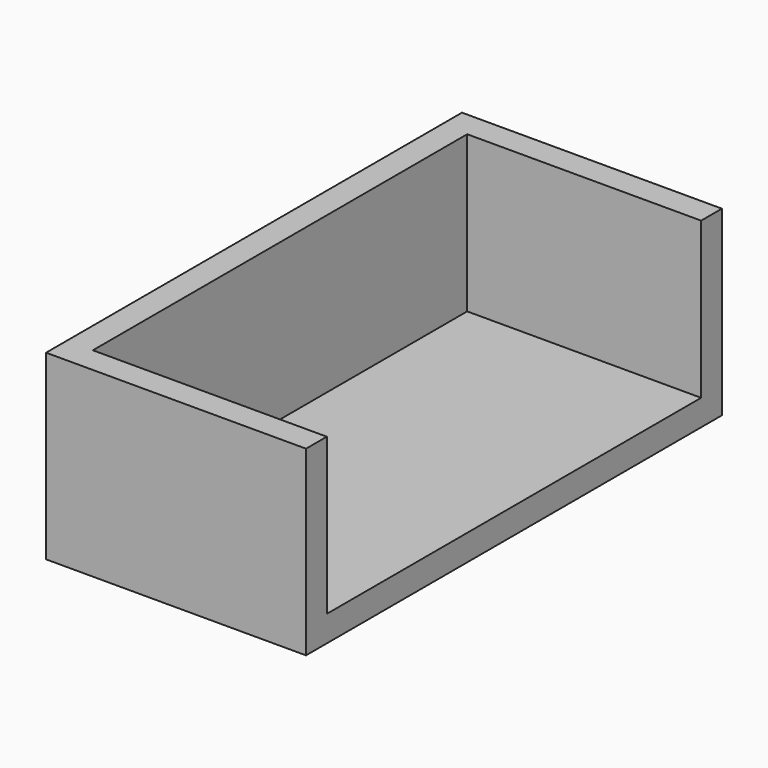
from build123d import *

# Parameters (mm, degrees)
F0_W     = 200
F0_H     = 70
F1_DEPTH = 100
F2_W     = 90
F2_H     = 180
F3_DEPTH = 60


with BuildPart() as f1:
    # F0 (on Right) → F1 (new body)
    with BuildSketch(Plane.YZ):
        Rectangle(F0_W, F0_H)
    extrude(amount=F1_DEPTH)

    # F2 (on face) → F3 (cut)
    with BuildSketch(Plane.XY.offset(35)):
        with Locations((55, 0)):
            Rectangle(F2_W, F2_H)
    extrude(amount=-F3_DEPTH, mode=Mode.SUBTRACT)


solid = f1.part
